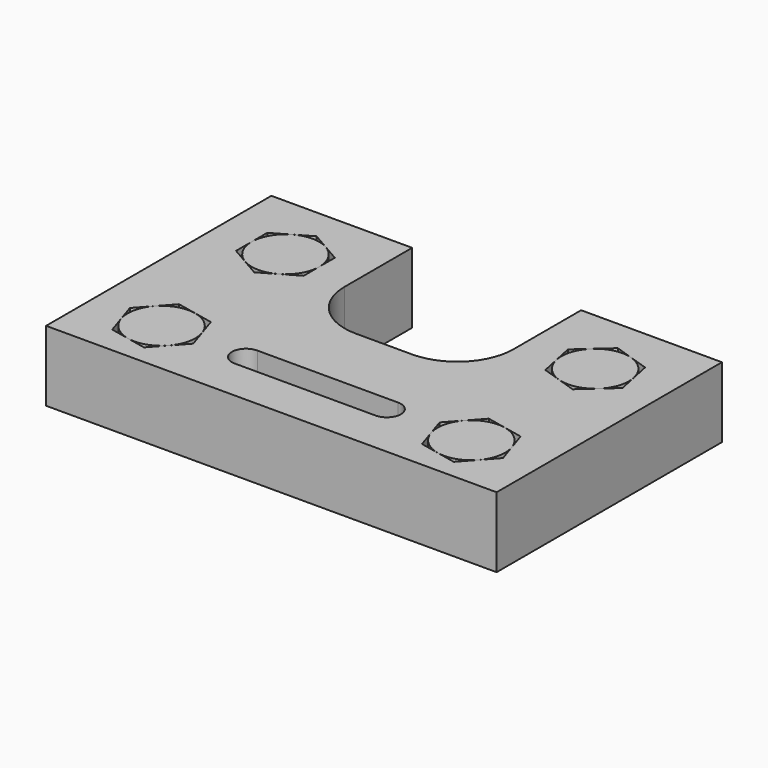
from build123d import *

# Parameters (mm, degrees)
F1_DEPTH = 25


with BuildPart() as f1:
    # F0 (on Top) → F1 (new body)
    with BuildSketch(Plane.XY):
        with BuildLine():
            Line((-58.5051, -50), (-28.5051, -50))
            Line((-28.5051, -50), (21.4949, -50))
            Line((21.4949, -50), (51.4949, -50))
            Line((51.4949, -50), (76.4949, -50))
            Line((76.4949, -50), (76.4949, -30))
            Line((76.4949, -30), (76.4949, 25))
            Line((76.4949, 25), (76.4949, 50))
            Line((76.4949, 50), (26.4949, 50))
            Line((26.4949, 50), (26.4949, 20))
            ThreePointArc((26.4949, 20), (20.637035, 5.857864), (6.4949, 0))
            Line((6.4949, 0), (-13.5051, 0))
            ThreePointArc((-13.5051, 0), (-27.647236, 5.857864), (-33.5051, 20))
            Line((-33.5051, 20), (-33.5051, 50))
            Line((-33.5051, 50), (-83.5051, 50))
            Line((-83.5051, 50), (-83.5051, 25))
            Line((-83.5051, 25), (-83.5051, -30))
            Line((-83.5051, -30), (-83.5051, -50))
            Line((-83.5051, -50), (-58.5051, -50))
        make_face()
        Polygon((-49.243183, -19.693842), (-47.095965, -26.280909), (-44.948747, -32.867977), (-49.579706, -38.021056), (-54.210664, -43.174135), (-60.988841, -41.740146), (-67.767017, -40.306158), (-69.914235, -33.719091), (-72.061453, -27.132023), (-67.430495, -21.978944), (-62.799536, -16.825865), (-56.02136, -18.259854), align=None, mode=Mode.SUBTRACT)
        with BuildLine():
            ThreePointArc((21.4949, -25), (26.4949, -30), (21.4949, -35))
            Line((21.4949, -35), (-28.5051, -35))
            ThreePointArc((-28.5051, -35), (-33.5051, -30), (-28.5051, -25))
            Line((-28.5051, -25), (21.4949, -25))
        make_face(mode=Mode.SUBTRACT)
        Polygon((60.756817, -19.693842), (62.904035, -26.280909), (65.051253, -32.867977), (60.420295, -38.021055), (55.789336, -43.174135), (49.011158, -41.740146), (42.232983, -40.306158), (40.085765, -33.719091), (37.938547, -27.132023), (42.569505, -21.978944), (47.200464, -16.825865), (53.97864, -18.259854), align=None, mode=Mode.SUBTRACT)
        Polygon((-46.5051, 31.928203), (-46.5051, 25), (-46.5051, 18.071797), (-52.5051, 14.607695), (-58.5051, 11.143594), (-64.5051, 14.607695), (-70.5051, 18.071797), (-70.5051, 25), (-70.5051, 31.928203), (-64.5051, 35.392305), (-58.5051, 38.856406), (-52.5051, 35.392305), align=None, mode=Mode.SUBTRACT)
        Polygon((61.82662, 34.233394), (63.241867, 27.451279), (64.657113, 20.669165), (59.491254, 16.052468), (54.325393, 11.435771), (47.744286, 13.601189), (41.16318, 15.766606), (39.747933, 22.548721), (38.332686, 29.330835), (43.498546, 33.947532), (48.664406, 38.564229), (55.245513, 36.398811), align=None, mode=Mode.SUBTRACT)
        with BuildLine():
            ThreePointArc((-52.5051, 14.607695), (-48.112795, 19), (-46.5051, 25))
            ThreePointArc((-46.5051, 25), (-48.112795, 31), (-52.5051, 35.392305))
            ThreePointArc((-52.5051, 35.392305), (-58.5051, 37), (-64.5051, 35.392305))
            ThreePointArc((-64.5051, 35.392305), (-68.897405, 31), (-70.5051, 25))
            ThreePointArc((-70.5051, 25), (-68.897405, 19), (-64.5051, 14.607695))
            ThreePointArc((-64.5051, 14.607695), (-58.5051, 13), (-52.5051, 14.607695))
        make_face()
        with BuildLine():
            ThreePointArc((-49.579706, -38.021056), (-47.300085, -34.295071), (-46.5051, -30))
            ThreePointArc((-46.5051, -30), (-46.653737, -28.117133), (-47.095965, -26.280909))
            ThreePointArc((-47.095965, -26.280909), (-50.484045, -21.074605), (-56.02136, -18.259854))
            ThreePointArc((-56.02136, -18.259854), (-62.224191, -18.590865), (-67.430495, -21.978944))
            ThreePointArc((-67.430495, -21.978944), (-70.245246, -27.516259), (-69.914235, -33.719091))
            ThreePointArc((-69.914235, -33.719091), (-66.526156, -38.925394), (-60.988841, -41.740146))
            ThreePointArc((-60.988841, -41.740146), (-54.78601, -41.409135), (-49.579706, -38.021056))
        make_face()
        with BuildLine():
            ThreePointArc((60.420295, -38.021055), (62.699915, -34.29507), (63.4949, -30))
            ThreePointArc((63.4949, -30), (63.346263, -28.117133), (62.904035, -26.280909))
            ThreePointArc((62.904035, -26.280909), (59.515955, -21.074605), (53.97864, -18.259854))
            ThreePointArc((53.97864, -18.259854), (47.775809, -18.590865), (42.569505, -21.978944))
            ThreePointArc((42.569505, -21.978944), (39.754754, -27.51626), (40.085765, -33.719091))
            ThreePointArc((40.085765, -33.719091), (43.473844, -38.925394), (49.011158, -41.740146))
            ThreePointArc((49.011158, -41.740146), (55.21399, -41.409135), (60.420295, -38.021055))
        make_face()
        with BuildLine():
            ThreePointArc((59.491254, 16.052468), (62.448352, 20.098788), (63.4949, 25))
            ThreePointArc((63.4949, 25), (63.431474, 26.232152), (63.241867, 27.451279))
            ThreePointArc((63.241867, 27.451279), (60.442432, 32.996353), (55.245513, 36.398811))
            ThreePointArc((55.245513, 36.398811), (49.043621, 36.746967), (43.498546, 33.947532))
            ThreePointArc((43.498546, 33.947532), (40.096089, 28.750614), (39.747933, 22.548721))
            ThreePointArc((39.747933, 22.548721), (42.547367, 17.003647), (47.744286, 13.601189))
            ThreePointArc((47.744286, 13.601189), (53.946179, 13.253033), (59.491254, 16.052468))
        make_face()
    extrude(amount=F1_DEPTH)


solid = f1.part
